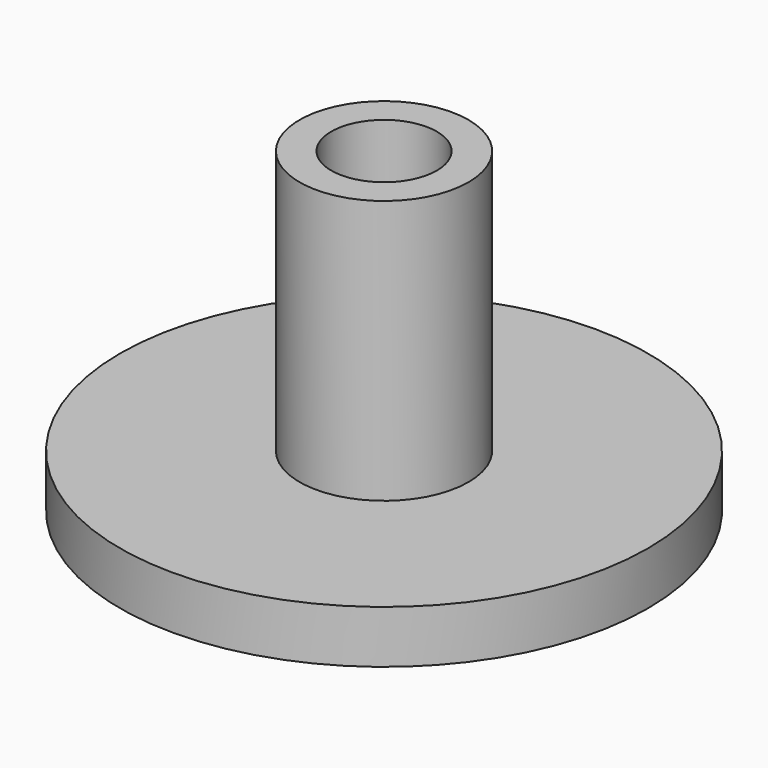
from build123d import *

# Parameters (mm, degrees)
F0_R     = 63.5
F0_R_2   = 20.32
F1_DEPTH = 12.7
F0_R_3   = 12.7
F2_DEPTH = 76.2
F3_W     = 127
F3_H     = 12.7
F4_DEPTH = 6.35


with BuildPart() as f1:
    # F0 (on Top) → F1 (new body)
    with BuildSketch(Plane.XY):
        Circle(F0_R)
        Circle(F0_R_2, mode=Mode.SUBTRACT)
    extrude(amount=F1_DEPTH)

    # F0 (on Top) → F2 (join)
    with BuildSketch(Plane.XY):
        Circle(F0_R_2)
        Circle(F0_R_3, mode=Mode.SUBTRACT)
    extrude(amount=F2_DEPTH)

    # F3 (on Top) → F4 (cut)
    with BuildSketch(Plane.XY):
        with Locations((-63.5, 0)):
            Rectangle(F3_W, F3_H)
    extrude(amount=F4_DEPTH, mode=Mode.SUBTRACT)


solid = f1.part
